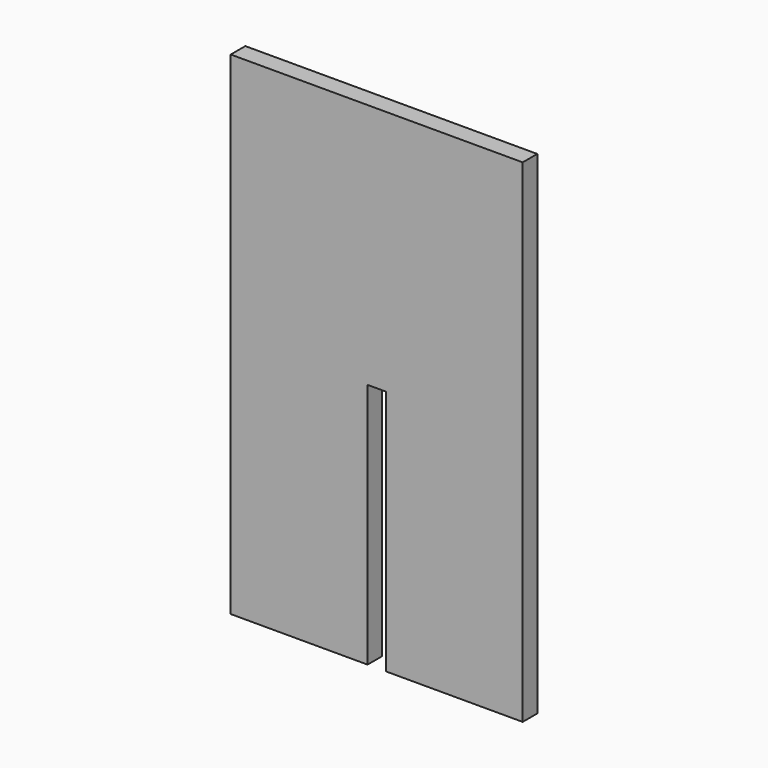
from build123d import *

# Parameters (mm, degrees)
F0_W     = 50.8
F0_H     = 85.725
F1_DEPTH = 3.175
F2_W     = 1.5875
F2_H     = 42.8625
F2_W_2   = 1.6002
F3_DEPTH = 3.176


with BuildPart() as f1:
    # F0 (on Front) → F1 (new body)
    with BuildSketch(Plane.XZ):
        with Locations((-3.192704, 1.555809)):
            Rectangle(F0_W, F0_H)
    extrude(amount=F1_DEPTH)

    # F2 (on face) → F3 (cut, through all)
    with BuildSketch(Plane.XZ.offset(3.175)):
        with Locations((-3.986454, -19.875441)):
            Rectangle(F2_W, F2_H)
        with Locations((-2.392604, -19.875441)):
            Rectangle(F2_W_2, F2_H)
    extrude(amount=-F3_DEPTH, mode=Mode.SUBTRACT)


solid = f1.part
